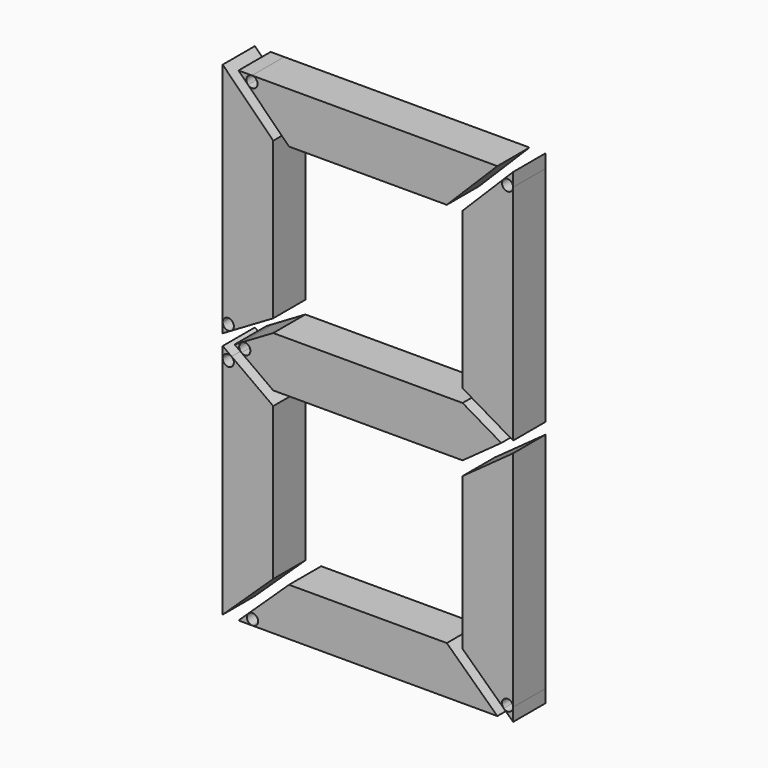
from build123d import *

# Parameters (mm, degrees)
F1_DEPTH = 22.86
F2_R     = 3.175
F3_DEPTH = 25.4


with BuildPart() as f1:
    # F0 (on Front) → F1 (new body)
    with BuildSketch(Plane.XZ):
        Polygon((-15.1739238592, -61.2904866815), (13.5534761408, -44.45), (13.5534761408, 44.45), (-15.1739238592, 73.1868195874), align=None)
    extrude(amount=F1_DEPTH)


with BuildPart() as f1b:
    # F0 (on Front) → F1, piece 2 (new body)
    with BuildSketch(Plane.XZ):
        Polygon((140.9854855022, 73.1868195874), (-6.195139428, 73.1868195874), (22.532260572, 44.45), (112.2486659148, 44.45), align=None)
    extrude(amount=F1_DEPTH)


with BuildPart() as f1c:
    # F0 (on Front) → F1, piece 3 (new body)
    with BuildSketch(Plane.XZ):
        Polygon((121.228922036, -174.8955888238), (149.9657416234, -202.1080866815), (149.9657416234, -67.6404866815), (121.228922036, -88.3673402517), align=None)
    extrude(amount=F1_DEPTH)


with BuildPart() as f1d:
    # F0 (on Front) → F1, piece 4 (new body)
    with BuildSketch(Plane.XZ):
        Polygon((13.5534761408, -51.8106613985), (-8.4134451263, -64.6880413574), (13.5534761408, -80.5380613985), (121.2287825639, -80.5380613985), (143.2040990216, -64.6880413574), (121.2299748981, -51.8106613985), align=None)
    extrude(amount=F1_DEPTH)


with BuildPart() as f1e:
    # F0 (on Front) → F1, piece 5 (new body)
    with BuildSketch(Plane.XZ):
        Polygon((13.5534761408, -88.368464908), (-15.1739238592, -67.6404866815), (-15.1739238592, -202.1080866815), (13.5534761408, -174.8955888238), align=None)
    extrude(amount=F1_DEPTH)


with BuildPart() as f1f:
    # F0 (on Front) → F1, piece 6 (new body)
    with BuildSketch(Plane.XZ):
        Polygon((22.532260572, -174.8955888238), (-6.195139428, -202.1080866815), (140.9854855022, -202.1080866815), (112.2486659148, -174.8955888238), align=None)
    extrude(amount=F1_DEPTH)


with BuildPart() as f1g:
    # F0 (on Front) → F1, piece 7 (new body)
    with BuildSketch(Plane.XZ):
        Polygon((149.9657416234, -61.2904866815), (149.9657416233, 73.1868195874), (121.2289220359, 44.45), (121.228922036, -44.45), align=None)
    extrude(amount=F1_DEPTH)


with BuildPart() as f3_tool:
    # F2 (on face) → F3 (new body)
    with BuildSketch(Plane.XZ):
        with Locations((-11.9989238592, -55.7489174012)):
            Circle(F2_R)
        with Locations((-11.9989238592, -73.8465790448)):
            Circle(F2_R)
        with Locations((-2.605385107, -64.9635892569)):
            Circle(F2_R)
        with Locations((1.7734120806, -198.9330866815)):
            Circle(F2_R)
        with Locations((146.7907416234, -194.728839653)):
            Circle(F2_R)
        with Locations((1.4682120604, 70.0118195874)):
            Circle(F2_R)
        with Locations((146.7907416233, 65.5216915269)):
            Circle(F2_R)
    extrude(amount=F3_DEPTH)


with BuildPart() as f1_1:
    add(f1.part)

    # F3: cut by f3_tool
    add(f3_tool.part, mode=Mode.SUBTRACT)


with BuildPart() as f1b_1:
    add(f1b.part)

    # F3: cut by f3_tool
    add(f3_tool.part, mode=Mode.SUBTRACT)


with BuildPart() as f1c_1:
    add(f1c.part)

    # F3: cut by f3_tool
    add(f3_tool.part, mode=Mode.SUBTRACT)


with BuildPart() as f1d_1:
    add(f1d.part)

    # F3: cut by f3_tool
    add(f3_tool.part, mode=Mode.SUBTRACT)


with BuildPart() as f1e_1:
    add(f1e.part)

    # F3: cut by f3_tool
    add(f3_tool.part, mode=Mode.SUBTRACT)


with BuildPart() as f1f_1:
    add(f1f.part)

    # F3: cut by f3_tool
    add(f3_tool.part, mode=Mode.SUBTRACT)


with BuildPart() as f1g_1:
    add(f1g.part)

    # F3: cut by f3_tool
    add(f3_tool.part, mode=Mode.SUBTRACT)


solid = Compound([f1_1.part, f1b_1.part, f1c_1.part, f1d_1.part, f1e_1.part, f1f_1.part, f1g_1.part])
